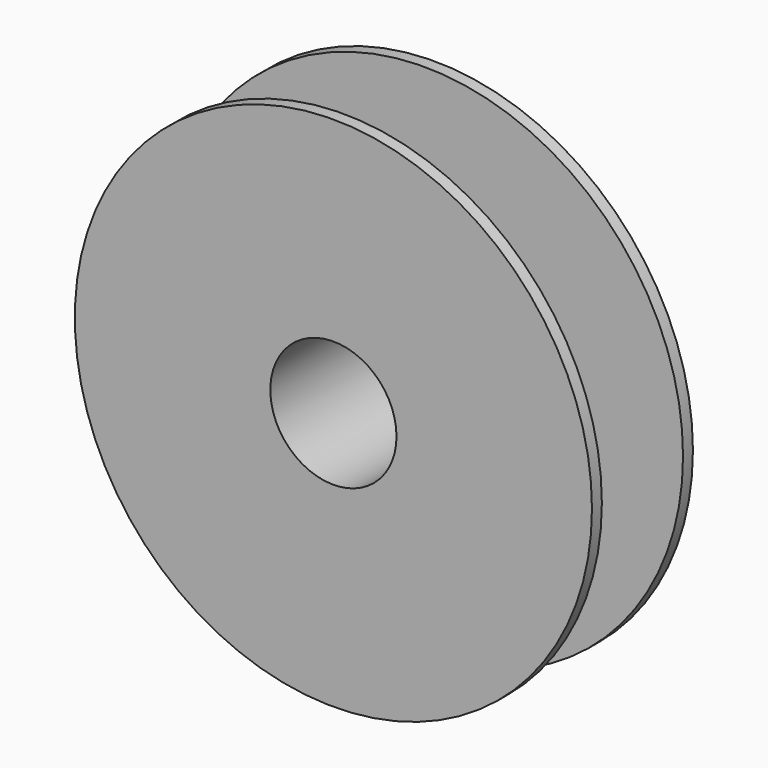
from build123d import *

# Parameters (mm, degrees)
F0_R     = 29.5
F0_R_2   = 25.5
F1_DEPTH = 25.5
F2_R     = 104.5
F2_R_2   = 29.5
F3_DEPTH = 5


with BuildPart() as f1:
    # F0 (on Front) → F1 (new body, symmetric)
    with BuildSketch(Plane.XZ):
        Circle(F0_R)
        Circle(F0_R_2, mode=Mode.SUBTRACT)
    extrude(amount=F1_DEPTH, both=True)

    # F2 (on face) → F3 (join)
    with BuildSketch(Plane.XZ.offset(25.5)):
        Circle(F2_R)
        Circle(F2_R_2, mode=Mode.SUBTRACT)
    extrude(amount=-F3_DEPTH)

    # F4: F1 across plane


with BuildPart() as f1_1:
    add(f1.part)
    add(f1.part.mirror(Plane.XZ))


solid = f1_1.part
